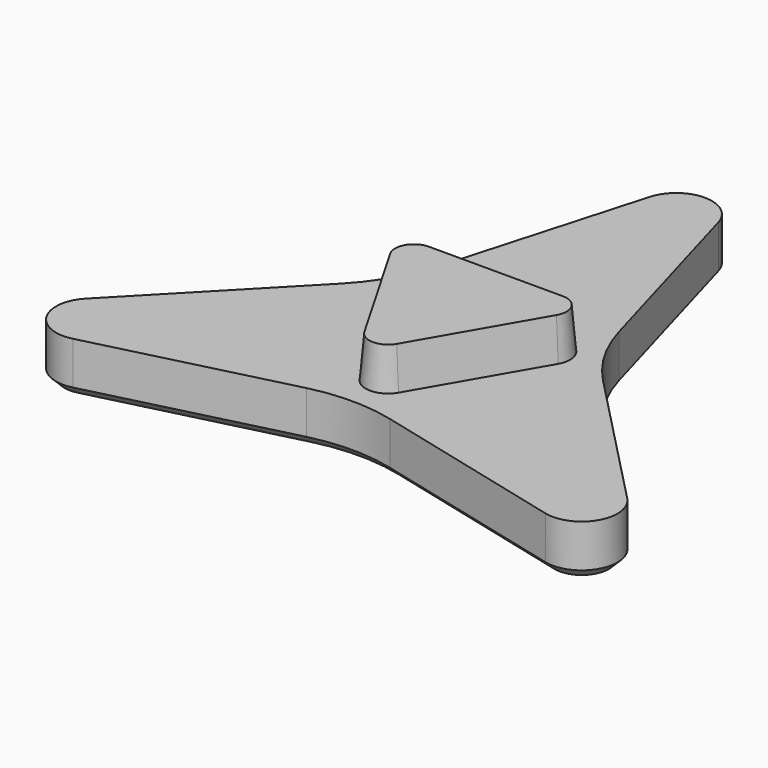
from build123d import *

# Parameters (mm, degrees)
F1_DEPTH = 2.4
F1_TAPER = 5
F3_DEPTH = 3
F4_R     = 10
F5_SIZE  = 0.5


with BuildPart() as f1:
    # F0 (on Top) → F1 (new body)
    with BuildSketch(Plane.XY):
        with BuildLine():
            Line((3.897114317, 3.55), (-3.897114317, 3.55))
            ThreePointArc((-3.897114317, 3.55), (-5.0229473419, 2.9), (-5.0229473419, 1.6))
            Line((-5.0229473419, 1.6), (-1.1258330249, -5.15))
            ThreePointArc((-1.1258330249, -5.15), (0, -5.8), (1.1258330249, -5.15))
            Line((1.1258330249, -5.15), (5.0229473419, 1.6))
            ThreePointArc((5.0229473419, 1.6), (5.0229473419, 2.9), (3.897114317, 3.55))
        make_face()
    extrude(amount=F1_DEPTH, taper=F1_TAPER)

    # F2 (on face) → F3 (join)
    with BuildSketch(Plane(origin=(0, 0, 0), x_dir=(1, 0, 0), z_dir=(0, 0, -1))):
        with BuildLine():
            Line((-15.7575166744, 6.788205417), (-5.8889727457, -3.4))
            Line((-5.8889727457, -3.4), (-2, -17.040512449))
            ThreePointArc((-2, -17.040512449), (0, -18.55), (2, -17.040512449))
            Line((2, -17.040512449), (5.8889727457, -3.4))
            Line((5.8889727457, -3.4), (15.7575166744, 6.788205417))
            ThreePointArc((15.7575166744, 6.788205417), (16.0647712402, 9.275), (13.7575166744, 10.2523070321))
            Line((13.7575166744, 10.2523070321), (0, 6.8))
            Line((0, 6.8), (-13.7575166744, 10.2523070321))
            ThreePointArc((-13.7575166744, 10.2523070321), (-16.0647712402, 9.275), (-15.7575166744, 6.788205417))
        make_face()
    extrude(amount=F3_DEPTH)

    # F4
    f4_edges = [f1.edges().sort_by_distance(p)[0] for p in [
        (0, -6.8, -1.5),
        (5.888973, 3.4, -1.5),
        (-5.888973, 3.4, -1.5),
    ]]
    fillet(f4_edges, radius=F4_R)

    # F5
    f5_edges = [f1.edges().sort_by_distance(p)[0] for p in [
        (-11.696199, -2.595334, -3),
        (-6.157481, 3.555024, -3),
        (-16.064771, -9.275, -3),
        (-3.600474, 11.426873, -3),
        (-8.095725, -8.831539, -3),
        (0, 18.55, -3),
        (0, -7.110047, -3),
        (3.600474, 11.426873, -3),
        (8.095725, -8.831539, -3),
        (6.157481, 3.555024, -3),
        (16.064771, -9.275, -3),
        (11.696199, -2.595334, -3),
    ]]
    chamfer(f5_edges, length=F5_SIZE)


solid = f1.part
